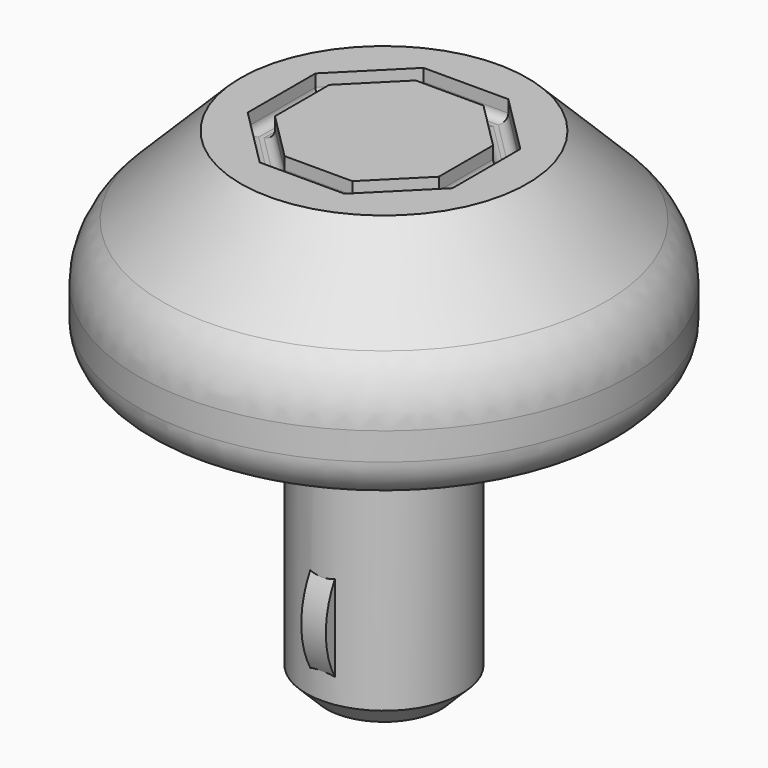
from build123d import *

# Parameters (mm, degrees)
F2_R     = 2
F3_R     = 1
F4_R     = 2.15
F5_DEPTH = 0.3
F7_DEPTH = 0.5
F8_R     = 0.2
F9_SIZE  = 0.5


with BuildPart() as f1:
    # F0 (on Front) → F1 (revolve)
    with BuildSketch(Plane.XZ):
        Polygon((-1.9, -9.478535), (0, -9.478535), (0, 2.5), (-3.5, 2.5), (-6, 0), (-6, -2.5), (-1.9, -2.5), align=None)
    revolve(axis=Axis((0, 0, -3.489268), (0, 0, -1)))

    # F2
    f2_edges = [f1.edges().sort_by_distance(p)[0] for p in [
        (6, 0, 0),
    ]]
    fillet(f2_edges, radius=F2_R)

    # F3
    f3_edges = [f1.edges().sort_by_distance(p)[0] for p in [
        (6, 0, -2.5),
    ]]
    fillet(f3_edges, radius=F3_R)

    # F4 (on Right) → F5 (join, symmetric)
    with BuildSketch(Plane.YZ):
        with Locations((0, -7.328535)):
            Circle(F4_R)
    extrude(amount=F5_DEPTH, both=True)

    # F6 (on face) → F7 (cut)
    with BuildSketch(Plane.XY.offset(2.5)):
        Polygon((-1.035534, 2.5), (-2.5, 1.035534), (-2.5, -1.035534), (-1.035534, -2.5), (1.035534, -2.5), (2.5, -1.035534), (2.5, 1.035534), (1.035534, 2.5), align=None)
        Polygon((-2, -0.828427), (-2, 0.828427), (-0.828427, 2), (0.828427, 2), (2, 0.828427), (2, -0.828427), (0.828427, -2), (-0.828427, -2), align=None, mode=Mode.SUBTRACT)
    extrude(amount=-F7_DEPTH, mode=Mode.SUBTRACT)

    # F8
    f8_edges = [f1.edges().sort_by_distance(p)[0] for p in [
        (-1.767767, 1.767767, 2),
        (-2.5, 0, 2),
        (-1.767767, -1.767767, 2),
        (0, -2.5, 2),
        (1.767767, -1.767767, 2),
        (2.5, 0, 2),
        (1.767767, 1.767767, 2),
        (0, 2.5, 2),
        (0, -2, 2),
        (-1.414214, -1.414214, 2),
        (-2, 0, 2),
        (-1.414214, 1.414214, 2),
        (0, 2, 2),
        (1.414214, 1.414214, 2),
        (2, 0, 2),
        (1.414214, -1.414214, 2),
    ]]
    fillet(f8_edges, radius=F8_R)

    # F9
    f9_edges = [f1.edges().sort_by_distance(p)[0] for p in [
        (1.9, 0, -9.478535),
    ]]
    chamfer(f9_edges, length=F9_SIZE)


solid = f1.part
